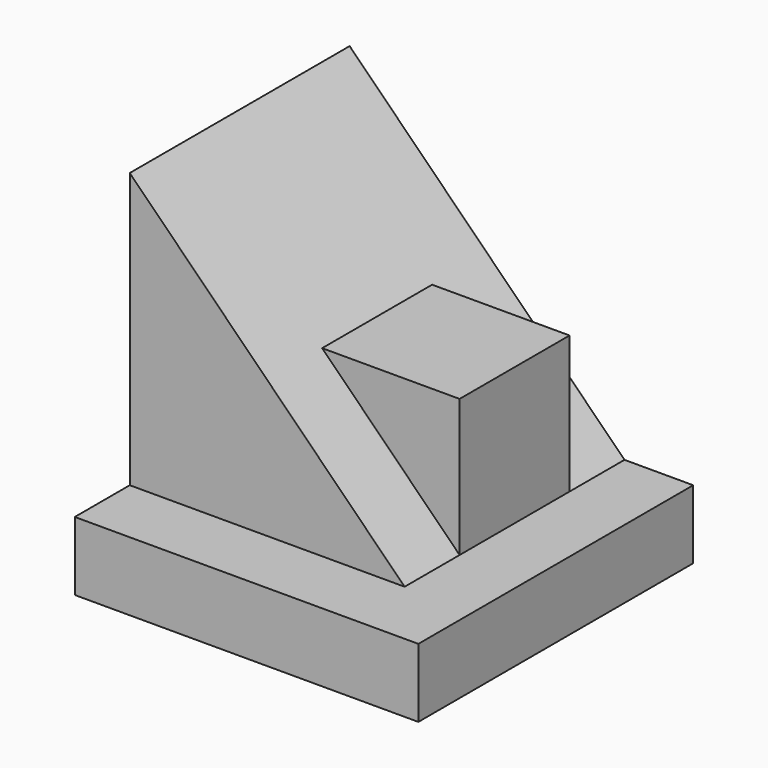
from build123d import *

# Parameters (mm, degrees)
F0_W     = 31.75
F0_H     = 31.75
F1_DEPTH = 6.35
F3_DEPTH = 25.4
F5_DEPTH = 19.05
F7_DEPTH = 6.35


with BuildPart() as f1:
    # F0 (on Top) → F1 (new body)
    with BuildSketch(Plane.XY):
        with Locations((15.875, 15.875)):
            Rectangle(F0_W, F0_H)
    extrude(amount=F1_DEPTH)

    # F2 (on face) → F3 (join)
    with BuildSketch(Plane(origin=(0, 31.75, 0), x_dir=(-1, 0, 0), z_dir=(0, 1, 0))):
        Polygon((-25.4, 6.35), (0, 6.35), (0, 31.75), align=None)
    extrude(amount=-F3_DEPTH)

    # F4 (on face) → F5 (join)
    with BuildSketch(Plane(origin=(0, 31.75, 0), x_dir=(-1, 0, 0), z_dir=(0, 1, 0))):
        Polygon((-25.4, 19.05), (-25.4, 6.35), (-12.7, 19.05), align=None)
    extrude(amount=-F5_DEPTH)

    # F6 (on face) → F7 (cut)
    with BuildSketch(Plane(origin=(0, 31.75, 0), x_dir=(-1, 0, 0), z_dir=(0, 1, 0))):
        Polygon((-25.4, 19.05), (-25.4, 6.35), (-12.7, 19.05), align=None)
    extrude(amount=-F7_DEPTH, mode=Mode.SUBTRACT)


solid = f1.part
